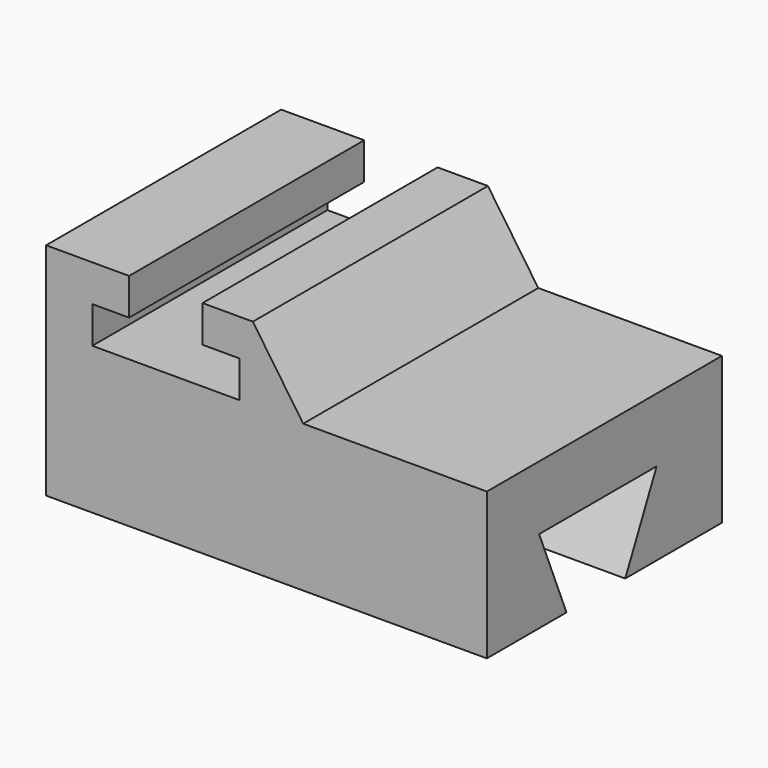
from build123d import *

# Parameters (mm, degrees)
F0_W     = 152.4
F0_H     = 76.2
F1_DEPTH = 101.6
F3_DEPTH = 101.6
F5_DEPTH = 101.6
F6_W     = 63.5
F6_H     = 25.4
F7_DEPTH = 101.6
F9_DEPTH = 101.6


with BuildPart() as f1:
    # F0 (on Front) → F1 (new body)
    with BuildSketch(Plane.XZ):
        with Locations((-3.404423, -39.877999)):
            Rectangle(F0_W, F0_H)
    extrude(amount=-F1_DEPTH)

    # F2 (on face) → F3 (cut)
    with BuildSketch(Plane.XZ):
        Polygon((-25.510689, -1.777999), (-50.910689, -1.777999), (-50.910689, -14.477999), (-63.610689, -14.477999), (-63.610689, -27.177999), (-12.810689, -27.177999), (-12.810689, -14.477999), (-25.510689, -14.477999), align=None)
    extrude(amount=-F3_DEPTH, mode=Mode.SUBTRACT)

    # F4 (on face) → F5 (cut)
    with BuildSketch(Plane.YZ.offset(72.795577)):
        Polygon((73.393088, -49.326587), (22.593088, -49.326587), (34.413401, -77.977999), (59.813401, -77.977999), align=None)
    extrude(amount=-F5_DEPTH, mode=Mode.SUBTRACT)

    # F6 (on face) → F7 (cut)
    with BuildSketch(Plane.XZ):
        with Locations((41.045577, -14.477999)):
            Rectangle(F6_W, F6_H)
    extrude(amount=-F7_DEPTH, mode=Mode.SUBTRACT)

    # F8 (on face) → F9 (cut)
    with BuildSketch(Plane.XZ):
        Polygon((9.295577, -1.777999), (-8.107556, -1.777999), (9.295577, -27.177999), align=None)
    extrude(amount=-F9_DEPTH, mode=Mode.SUBTRACT)


solid = f1.part
